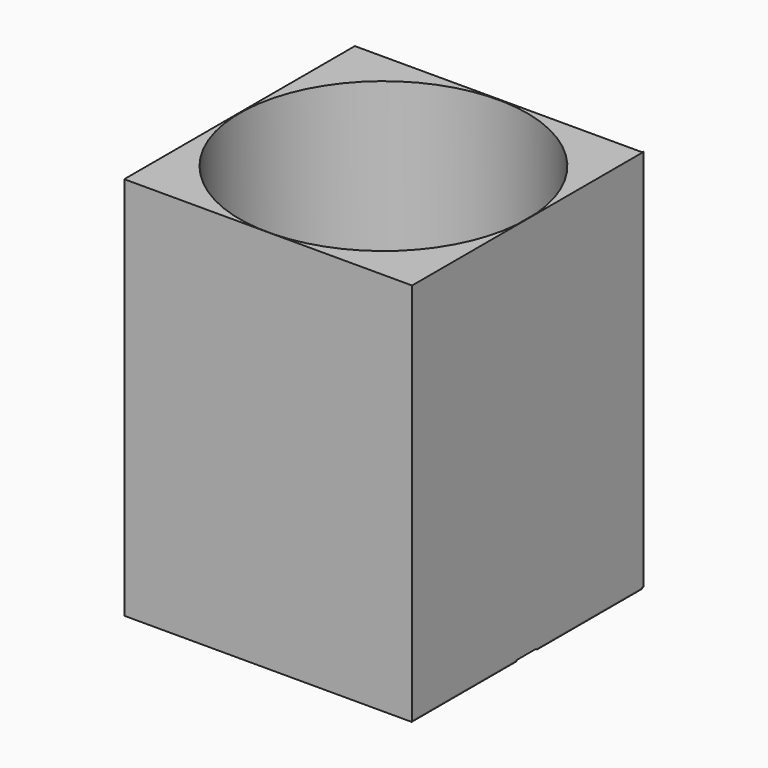
from build123d import *

# Parameters (mm, degrees)
F0_W          = 151.9167423248
F0_H          = 152.3730680346
F1_DEPTH      = 101.6
F1_DEPTH_BACK = 101.6
F3_D          = 151.892
F3_DEPTH      = 203.2
F3_TIP        = 45.6329605727
F4_W          = 153.0907899141
F4_H          = 202.4234843612
F5_DEPTH      = 0.254


with BuildPart() as f1:
    # F0 (on Top) → F1 (new body, two sides)
    with BuildSketch(Plane.XY) as f1_sk:
        with Locations((-0.2950653434, 0.2231635153)):
            Rectangle(F0_W, F0_H)
    extrude(amount=F1_DEPTH)
    extrude(f1_sk.sketch, amount=-F1_DEPTH_BACK)

    # F3
    with Locations(Plane.XY.offset(101.6)):
        with Locations((0, 0)):
            Hole(F3_D / 2, depth=F3_DEPTH)
            with Locations((0, 0, -(F3_DEPTH + F3_TIP / 2))):  # 118° drill point
                Cone(0, F3_D / 2, F3_TIP, mode=Mode.SUBTRACT)

    # F4 (on face) → F5 (join)
    with BuildSketch(Plane.YZ.offset(75.663305819)):
        with Locations((0.5820244551, 0.3882578194)):
            Rectangle(F4_W, F4_H)
    extrude(amount=F5_DEPTH)


solid = f1.part
